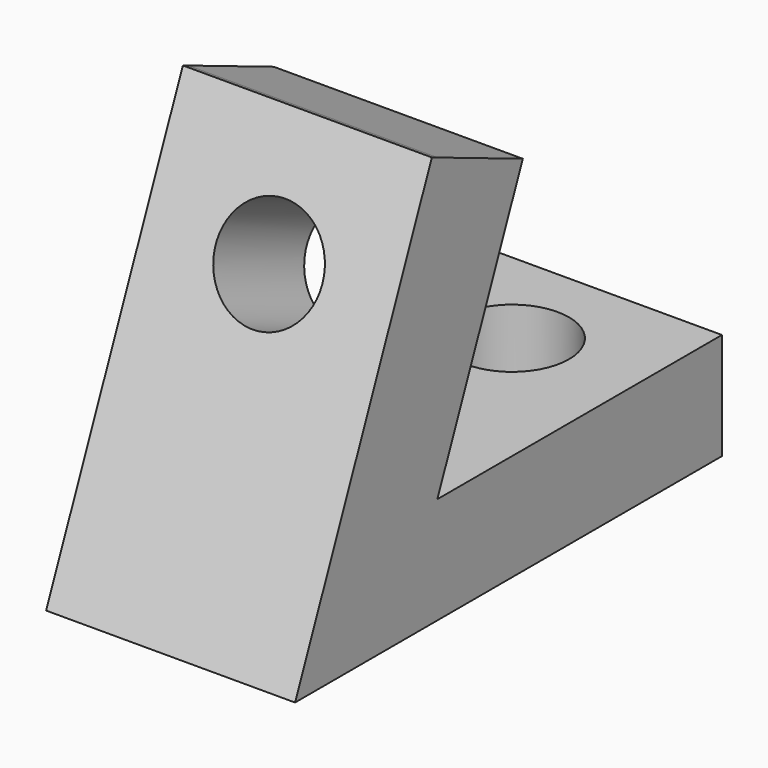
from build123d import *

# Parameters (mm, degrees)
F0_W     = 7
F0_H     = 10
F0_R     = 1.6
F1_DEPTH = 3
F0_H_2   = 5
F2_DEPTH = 12
F4_DEPTH = 25
F5_DEPTH = 7
F6_R     = 1.5
F7_DEPTH = 10


with BuildPart() as f1:
    # F0 (on Top) → F1 (new body)
    with BuildSketch(Plane.XY):
        with Locations((-3.5, -5)):
            Rectangle(F0_W, F0_H)
        with Locations((-3.5, -3)):
            Circle(F0_R, mode=Mode.SUBTRACT)
    extrude(amount=F1_DEPTH)

    # F0 (on Top) → F2 (join)
    with BuildSketch(Plane.XY):
        with Locations((-3.5, -12.5)):
            Rectangle(F0_W, F0_H_2)
    extrude(amount=F2_DEPTH)

    # F3 (on face) → F4 (cut)
    with BuildSketch(Plane(origin=(-7, 0, 0), x_dir=(0, -1, 0), z_dir=(-1, 0, 0))):
        Polygon((10.1929933606, 11.5368159345), (15, 0), (15, 12), (10, 12), align=None)
        Polygon((10, 11.4564020342), (10.1929933606, 11.5368159345), (10, 12), align=None)
    extrude(amount=-F4_DEPTH, mode=Mode.SUBTRACT)

    # F3 (on face) → F5 (join)
    with BuildSketch(Plane(origin=(-7, 0, 0), x_dir=(0, -1, 0), z_dir=(-1, 0, 0))):
        Polygon((10, 3), (10, 11.4564020342), (6.9977270885, 10.2054549877), align=None)
    extrude(amount=-F5_DEPTH)

    # F6 (on face) → F7 (cut)
    with BuildSketch(Plane(origin=(0, -12.7810650888, 5.325443787), x_dir=(1, 0, 0), z_dir=(0, -0.9230769231, 0.3846153846))):
        with Locations((-3.5, 3.2289864931)):
            Circle(F6_R)
    extrude(amount=-F7_DEPTH, mode=Mode.SUBTRACT)


solid = f1.part
